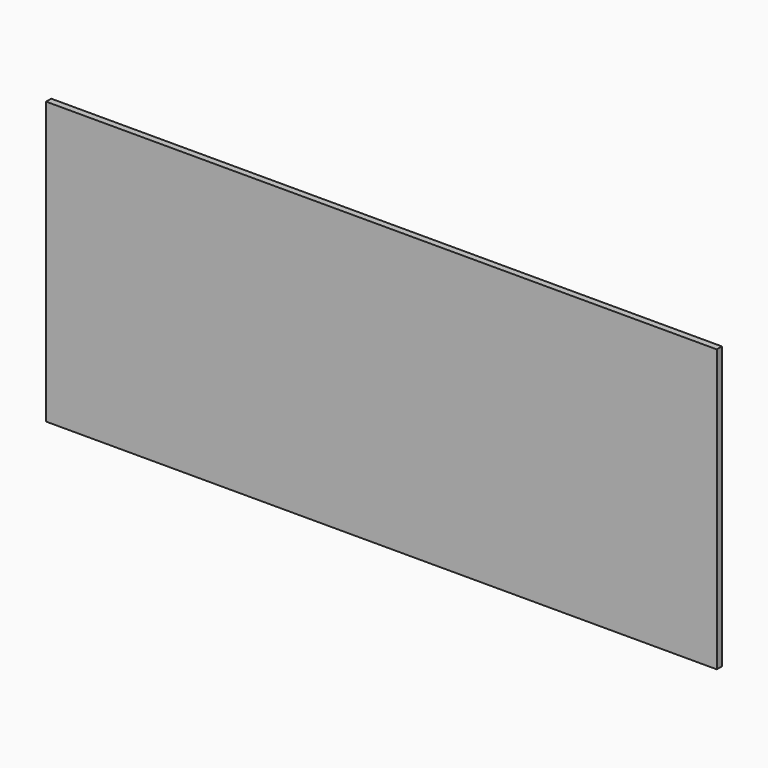
from build123d import *

# Parameters (mm, degrees)
F0_W     = 79.375
F0_H     = 33.3375
F1_DEPTH = 0.762


with BuildPart() as f1:
    # F0 (on Front) → F1 (new body)
    with BuildSketch(Plane.XZ):
        with Locations((39.6875, 16.66875)):
            Rectangle(F0_W, F0_H)
    extrude(amount=F1_DEPTH)


with BuildPart() as f1_1:
    # F2: moved
    add(f1.part.moved(Location((0, 0, -11.1252))))


with BuildPart() as f1_2:
    # F3: moved
    add(f1_1.part.moved(Location((0, 1.5875, 0))))


solid = f1_2.part
